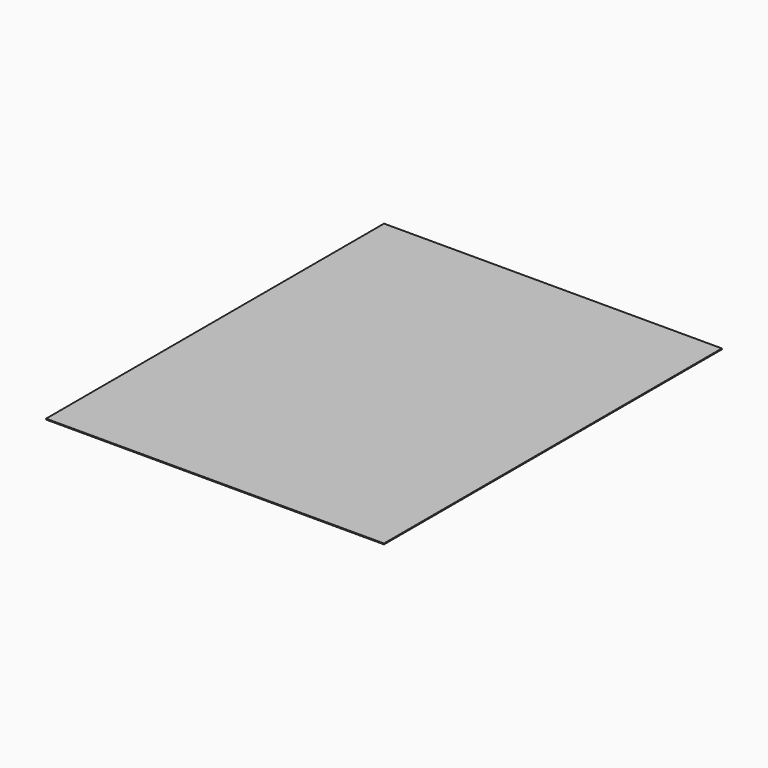
from build123d import *

# Parameters (mm, degrees)
BOX_W     = 4000
BOX_H     = 5000
BOX_DEPTH = 10


with BuildPart() as part:
    # Box → Box (new body)
    with BuildSketch(Plane.XY):
        with Locations((2000, 2500)):
            Rectangle(BOX_W, BOX_H)
    extrude(amount=BOX_DEPTH)


solid = part.part
